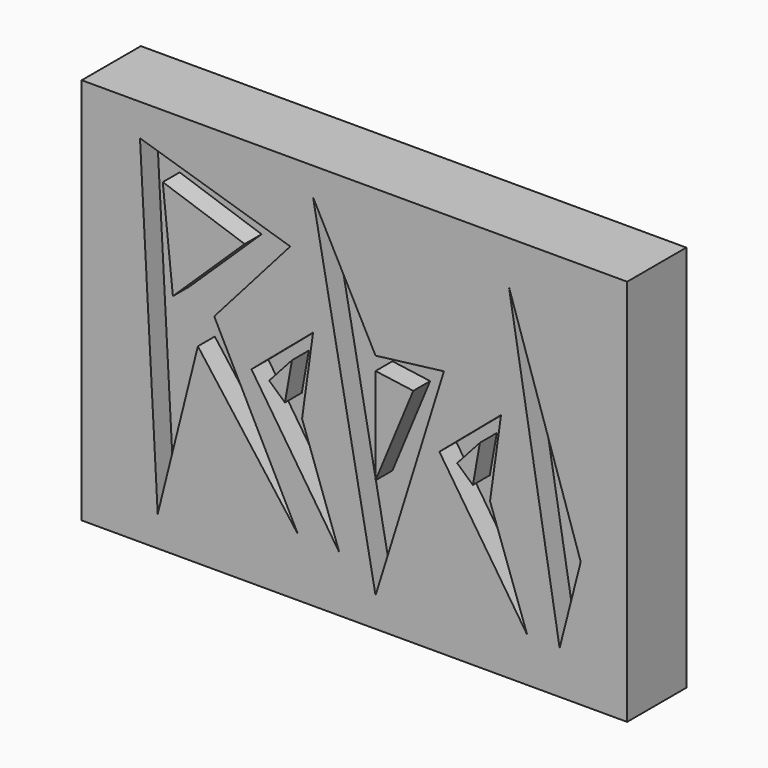
from build123d import *

# Parameters (mm, degrees)
F0_W     = 131.183904
F0_H     = 93.209621
F1_DEPTH = 17.78
F2_DEPTH = 12.7


with BuildPart() as f1:
    # F0 (on Front) → F1 (new body)
    with BuildSketch(Plane.XZ):
        with Locations((-5.076775, -1.116889)):
            Rectangle(F0_W, F0_H)
        Polygon((-52.392337, -40.411144), (-56.656826, 37.771218), (-20.510178, 26.602311), (-38.798853, 5.851696), (-18.682538, -33.709798), (-42.728541, -1.755968), align=None, mode=Mode.SUBTRACT)
        Polygon((-29.851446, -2.436853), (-15.027259, 10.153553), (-17.667184, -8.935127), (-8.732056, -34.31901), align=None, mode=Mode.SUBTRACT)
        Polygon((15.355829, -5.198428), (30.180015, 7.391979), (27.540091, -11.696702), (36.475219, -37.080584), align=None, mode=Mode.SUBTRACT)
        Polygon((44.269491, -37.365075), (32.085229, 35.131294), (49.346268, -17.464112), align=None, mode=Mode.SUBTRACT)
        Polygon((0, -40.614214), (-15.027259, 38.786575), (0, 10.153553), (16.448757, 12.184264), align=None, mode=Mode.SUBTRACT)
        Polygon((-31.476017, 23.556244), (-51.17391, 30.257588), (-48.737057, 6.904416), align=None)
        Polygon((-21.7948, -6.865149), (-20.104036, 2.639924), (-25.586955, -3.452208), align=None)
        Polygon((9.070567, 5.649976), (0, 6.904416), (0, -16.245686), align=None)
        Polygon((23.412475, -9.626723), (25.103239, -0.121651), (19.62032, -6.213783), align=None)
    extrude(amount=F1_DEPTH)


with BuildPart() as f2:
    # F0 (on Front) → F2 (new body)
    with BuildSketch(Plane.XZ):
        Polygon((-20.510178, 26.602311), (-56.656826, 37.771218), (-52.392337, -40.411144), (-42.728541, -1.755968), (-41.629568, 2.639924), (-38.798853, 5.851696), align=None)
        Polygon((-48.737057, 6.904416), (-51.17391, 30.257588), (-31.476017, 23.556244), align=None, mode=Mode.SUBTRACT)
        Polygon((-41.629568, 2.639924), (-42.728541, -1.755968), (-18.682538, -33.709798), (-38.798853, 5.851696), align=None)
        Polygon((-17.667184, -8.935127), (-15.027259, 10.153553), (-29.851446, -2.436853), (-8.732056, -34.31901), align=None)
        Polygon((-25.586955, -3.452208), (-20.104036, 2.639924), (-21.7948, -6.865149), align=None, mode=Mode.SUBTRACT)
        Polygon((0, 10.153553), (-15.027259, 38.786575), (0, -40.614214), (16.448757, 12.184264), align=None)
        Polygon((0, -16.245686), (0, 6.904416), (9.070567, 5.649976), align=None, mode=Mode.SUBTRACT)
        Polygon((27.540091, -11.696702), (30.180015, 7.391979), (15.355829, -5.198428), (36.475219, -37.080584), align=None)
        Polygon((19.62032, -6.213783), (25.103239, -0.121651), (23.412475, -9.626723), align=None, mode=Mode.SUBTRACT)
        Polygon((49.346268, -17.464112), (32.085229, 35.131294), (44.269491, -37.365075), align=None)
    extrude(amount=F2_DEPTH)


solid = Compound([f1.part, f2.part])
